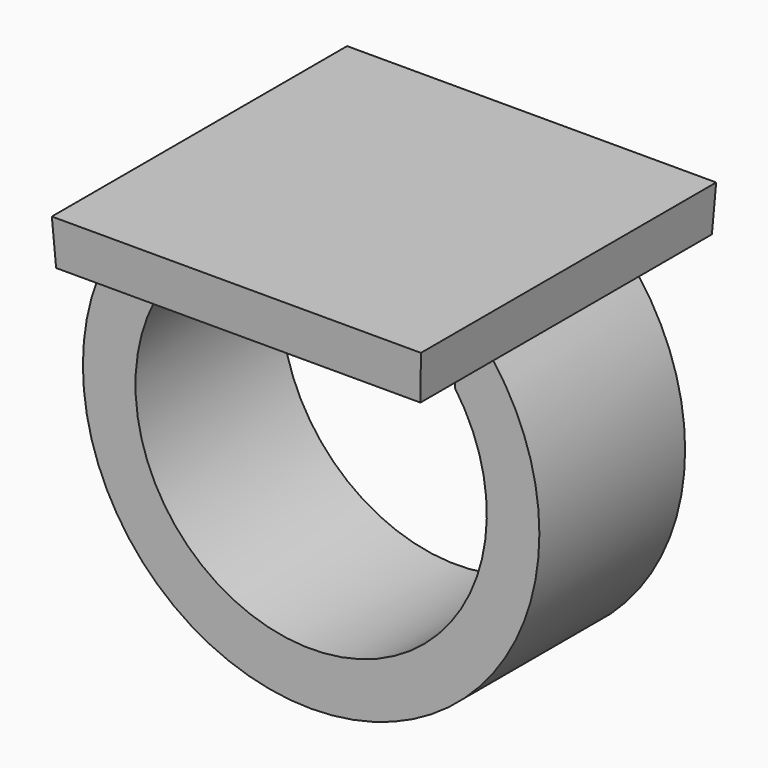
from build123d import *

# Parameters (mm, degrees)
F0_W     = 25.4
F0_H     = 25.4
F1_DEPTH = 3.175
F1_TAPER = -3
F3_W     = 5.08
F3_H     = 12.7


with BuildPart() as f1:
    # F0 (on Top) → F1 (new body)
    with BuildSketch(Plane.XY):
        Rectangle(F0_W, F0_H)
    extrude(amount=F1_DEPTH, taper=F1_TAPER)

    # F4: sweep along a path in F2
    with BuildLine(Plane.XZ) as f4_path:
        ThreePointArc((-10.16, 0), (0, -23.5582897328), (10.16, 0))
    # F3 (on face) → F4 (sweep)
    with BuildSketch(Plane(origin=(0, 0, 0), x_dir=(1, 0, 0), z_dir=(0, 0, -1))):
        with Locations((-10.16, 0)):
            Rectangle(F3_W, F3_H)
    sweep(path=f4_path.line)


solid = f1.part
